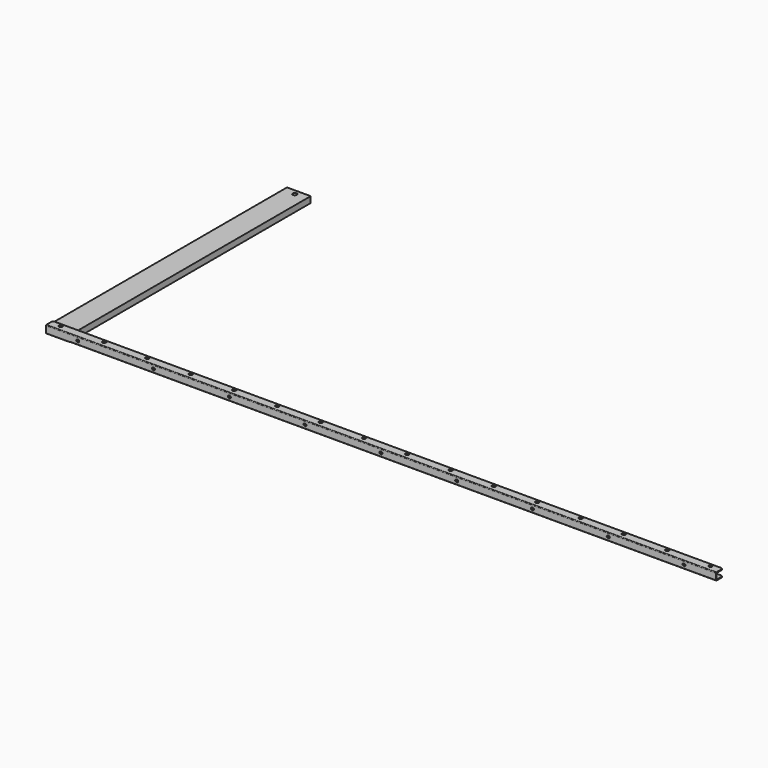
from build123d import *

# Parameters (mm, degrees)
F0_W      = 70
F0_H      = 890
F1_DEPTH  = 18
F2_R      = 6
F3_DEPTH  = 18
F4_W      = 25
F4_H      = 22
F5_DEPTH  = 1980
F6_R      = 5
F7_R      = 2
F8_T      = -2.5
F9_R      = 5.25
F10_DEPTH = 22.001
F12_DEPTH = 2.5


with BuildPart() as f1:
    # F0 (on Top) → F1 (new body)
    with BuildSketch(Plane.XY):
        with Locations((35, 445)):
            Rectangle(F0_W, F0_H)
    extrude(amount=F1_DEPTH)

    # F2 (on face) → F3 (cut, through all)
    with BuildSketch(Plane.XY.offset(18)):
        with Locations((35, 875)):
            Circle(F2_R)
        with Locations((35, 15)):
            Circle(F2_R)
    extrude(amount=-F3_DEPTH, mode=Mode.SUBTRACT)


with BuildPart() as f5:
    # F4 (on Right) → F5 (new body)
    with BuildSketch(Plane.YZ):
        with Locations((12.5, 11)):
            Rectangle(F4_W, F4_H)
    extrude(amount=F5_DEPTH)

    # F6
    f6_edges = [f5.edges().sort_by_distance(p)[0] for p in [
        (0, 25, 11),
        (1980, 25, 11),
    ]]
    fillet(f6_edges, radius=F6_R)

    # F7
    f7_edges = [f5.edges().sort_by_distance(p)[0] for p in [
        (990, 0, 22),
        (990, 0, 0),
    ]]
    fillet(f7_edges, radius=F7_R)

    # F8
    f8_openings = [f5.faces().sort_by_distance(p)[0] for p in [
        (990, 25, 11),
        (1.464466, 23.535534, 11),
        (0, 10.037421, 11),
        (1978.535534, 23.535534, 11),
        (1980, 10.037421, 11),
    ]]
    offset(amount=F8_T, openings=f8_openings)

    # F9 (on face) → F10 (cut, through all)
    with BuildSketch(Plane(origin=(0, 0, 0), x_dir=(1, 0, 0), z_dir=(0, 0, -1))):
        with Locations((1950, -17)):
            Circle(F9_R)
        with Locations((1822, -17)):
            Circle(F9_R)
        with Locations((1694, -17)):
            Circle(F9_R)
        with Locations((1566, -17)):
            Circle(F9_R)
        with Locations((1438, -17)):
            Circle(F9_R)
        with Locations((1310, -17)):
            Circle(F9_R)
        with Locations((1182, -17)):
            Circle(F9_R)
        with Locations((1054, -17)):
            Circle(F9_R)
        with Locations((926, -17)):
            Circle(F9_R)
        with Locations((798, -17)):
            Circle(F9_R)
        with Locations((670, -17)):
            Circle(F9_R)
        with Locations((542, -17)):
            Circle(F9_R)
        with Locations((414, -17)):
            Circle(F9_R)
        with Locations((286, -17)):
            Circle(F9_R)
        with Locations((158, -17)):
            Circle(F9_R)
        with Locations((30, -17)):
            Circle(F9_R)
    extrude(amount=-F10_DEPTH, mode=Mode.SUBTRACT)

    # F11 (on face) → F12 (cut, through all)
    with BuildSketch(Plane(origin=(0, 2.5, 0), x_dir=(-1, 0, 0), z_dir=(0, 1, 0))):
        with BuildLine():
            ThreePointArc((-1884.5, 7.5), (-1881, 11), (-1884.5, 14.5))
            Line((-1884.5, 14.5), (-1886.5, 14.5))
            ThreePointArc((-1886.5, 14.5), (-1890, 11), (-1886.5, 7.5))
            Line((-1886.5, 7.5), (-1884.5, 7.5))
        make_face()
        with BuildLine():
            ThreePointArc((-1660.5, 7.5), (-1657, 11), (-1660.5, 14.5))
            Line((-1660.5, 14.5), (-1662.5, 14.5))
            ThreePointArc((-1662.5, 14.5), (-1666, 11), (-1662.5, 7.5))
            Line((-1662.5, 7.5), (-1660.5, 7.5))
        make_face()
        with BuildLine():
            ThreePointArc((-1436.5, 7.5), (-1433, 11), (-1436.5, 14.5))
            Line((-1436.5, 14.5), (-1438.5, 14.5))
            ThreePointArc((-1438.5, 14.5), (-1442, 11), (-1438.5, 7.5))
            Line((-1438.5, 7.5), (-1436.5, 7.5))
        make_face()
        with BuildLine():
            ThreePointArc((-1212.5, 7.5), (-1209, 11), (-1212.5, 14.5))
            Line((-1212.5, 14.5), (-1214.5, 14.5))
            ThreePointArc((-1214.5, 14.5), (-1218, 11), (-1214.5, 7.5))
            Line((-1214.5, 7.5), (-1212.5, 7.5))
        make_face()
        with BuildLine():
            ThreePointArc((-988.5, 7.5), (-985, 11), (-988.5, 14.5))
            Line((-988.5, 14.5), (-990.5, 14.5))
            ThreePointArc((-990.5, 14.5), (-994, 11), (-990.5, 7.5))
            Line((-990.5, 7.5), (-988.5, 7.5))
        make_face()
        with BuildLine():
            ThreePointArc((-764.5, 7.5), (-761, 11), (-764.5, 14.5))
            Line((-764.5, 14.5), (-766.5, 14.5))
            ThreePointArc((-766.5, 14.5), (-770, 11), (-766.5, 7.5))
            Line((-766.5, 7.5), (-764.5, 7.5))
        make_face()
        with BuildLine():
            ThreePointArc((-540.5, 7.5), (-537, 11), (-540.5, 14.5))
            Line((-540.5, 14.5), (-542.5, 14.5))
            ThreePointArc((-542.5, 14.5), (-546, 11), (-542.5, 7.5))
            Line((-542.5, 7.5), (-540.5, 7.5))
        make_face()
        with BuildLine():
            ThreePointArc((-316.5, 7.5), (-313, 11), (-316.5, 14.5))
            Line((-316.5, 14.5), (-318.5, 14.5))
            ThreePointArc((-318.5, 14.5), (-322, 11), (-318.5, 7.5))
            Line((-318.5, 7.5), (-316.5, 7.5))
        make_face()
        with BuildLine():
            ThreePointArc((-92.5, 7.5), (-89, 11), (-92.5, 14.5))
            Line((-92.5, 14.5), (-94.5, 14.5))
            ThreePointArc((-94.5, 14.5), (-98, 11), (-94.5, 7.5))
            Line((-94.5, 7.5), (-92.5, 7.5))
        make_face()
    extrude(amount=-F12_DEPTH, mode=Mode.SUBTRACT)


solid = Compound([f1.part, f5.part])
